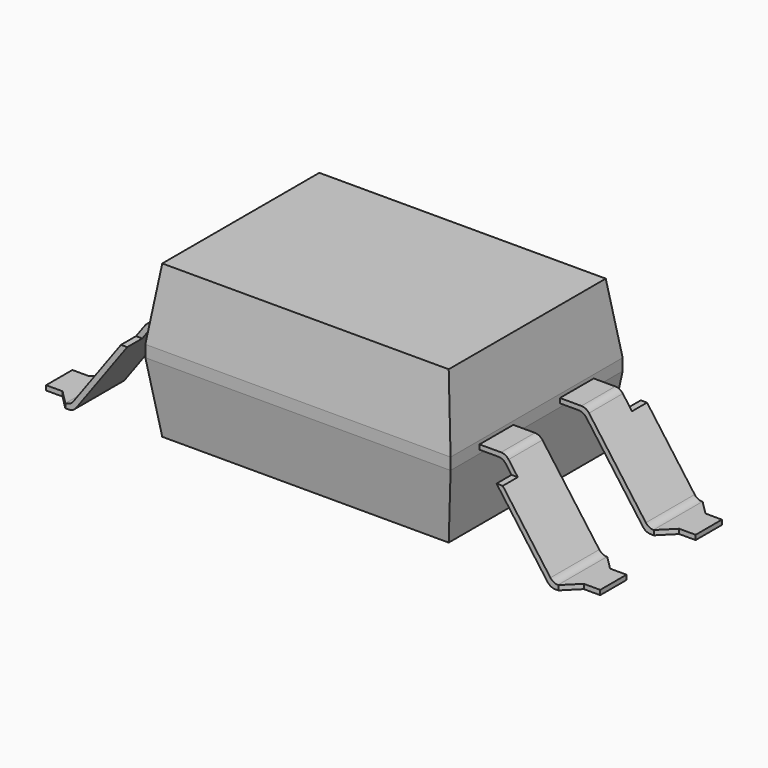
from build123d import *

# Parameters (mm, degrees)
BOX001_W               = 0.8
BOX001_H               = 0.8
BOX001_DEPTH           = 0.5
CHAMFER_SIZE           = 0.3
BOX_W                  = 10
BOX_H                  = 0.4
BOX_DEPTH              = 0.4
EXTRUDE001_DEPTH       = 1.3
FILLET_R               = 0.2
CUT005_PLACEMENT_ANGLE = 180
SKETCH_W               = 6.5
SKETCH_H               = 4.58
EXTRUDE_DEPTH          = 0.25
SKETCH001_W            = 6.1
SKETCH001_H            = 4.18


with BuildPart() as chamfer_body:
    # Box001 → Box001 (new body)
    with BuildSketch(Plane(origin=(-2.9, -0.2, -2), x_dir=(1, 0, 0), z_dir=(0, 0, 1))):
        with Locations((0.4, 0.4)):
            Rectangle(BOX001_W, BOX001_H)
    extrude(amount=BOX001_DEPTH)

    # Chamfer
    chamfer_edges = [chamfer_body.edges().sort_by_distance(p)[0] for p in [
        (-2.1, 0.6, -1.75),
    ]]
    chamfer(chamfer_edges, length=CHAMFER_SIZE)


with BuildPart() as chamfer_body_1:
    # Chamfer placement: moved
    add(chamfer_body.part.moved(Location((0.1, -0.1, 0))))


with BuildPart() as part_mirroring001:
    # Part__Mirroring001: instance of Chamfer body
    add(chamfer_body_1.part.mirror(Plane(origin=(0, 0.85, 0), x_dir=(1, 0, 0), z_dir=(0, 1, 0))))


with BuildPart() as part_mirroring002:
    # Part__Mirroring002: instance of Part__Mirroring001
    add(part_mirroring001.part.mirror(Plane(origin=(3.25, 0, 0), x_dir=(0, -1, 0), z_dir=(1, 0, 0))))


with BuildPart() as part_mirroring003:
    # Part__Mirroring003: instance of Part__Mirroring002
    add(part_mirroring002.part.mirror(Plane(origin=(0, 0.85, 0), x_dir=(1, 0, 0), z_dir=(0, 1, 0))))


with BuildPart() as cube:
    # Box → Box (new body)
    with BuildSketch(Plane(origin=(-1.5, 0.2, -0.3), x_dir=(1, 0, 0), z_dir=(0, 0, 1))):
        with Locations((5, 0.2)):
            Rectangle(BOX_W, BOX_H)
    extrude(amount=BOX_DEPTH)


with BuildPart() as cut003:
    # Sketch002 → Extrude001 (new body)
    with BuildSketch(Plane.XZ.offset(-0.2)):
        Polygon((-2.65, -1.875), (-1.83, -1.875), (-0.5, -0.05), (7, -0.05), (8.33, -1.875), (9.15, -1.875), (9.15, -1.775), (8.39, -1.775), (7.06, 0.05), (-0.56, 0.05), (-1.89, -1.775), (-2.65, -1.775), align=None)
    extrude(amount=EXTRUDE001_DEPTH)


with BuildPart() as cut003_1:
    # Extrude001 placement: moved
    add(cut003.part.moved(Location((0, 1.3, 0))))

    # Fillet
    fillet_edges = [cut003_1.edges().sort_by_distance(p)[0] for p in [
        (-1.83, 0.85, -1.875),
        (-0.5, 0.85, -0.05),
        (7, 0.85, -0.05),
        (8.33, 0.85, -1.875),
        (8.39, 0.85, -1.775),
        (7.06, 0.85, 0.05),
        (-0.56, 0.85, 0.05),
        (-1.89, 0.85, -1.775),
    ]]
    fillet(fillet_edges, radius=FILLET_R)

    # Cut: cut Cube
    add(cube.part, mode=Mode.SUBTRACT)

    # Cut001: cut Chamfer body
    add(chamfer_body_1.part, mode=Mode.SUBTRACT)

    # Cut002: cut Part__Mirroring001
    add(part_mirroring001.part, mode=Mode.SUBTRACT)

    # Cut003: cut Part__Mirroring002
    add(part_mirroring002.part, mode=Mode.SUBTRACT)


with BuildPart() as legs001:
    # Cut004 base: copy of Cut003
    add(cut003_1.part)

    # Cut004: cut Part__Mirroring003
    add(part_mirroring003.part, mode=Mode.SUBTRACT)


with BuildPart() as legs001_1:
    # Cut004 placement: moved
    add(legs001.part.moved(Location((0, 0.17, 0))))


with BuildPart() as legs002:
    # Cut005 base: copy of Cut003
    add(cut003_1.part)

    # Cut005: cut Part__Mirroring003
    add(part_mirroring003.part, mode=Mode.SUBTRACT)


with BuildPart() as legs002_1:
    # Cut005 placement: moved
    add(legs002.part.moved(Location((6.5, 4.41, 0))).rotate(Axis((6.5, 4.41, 0), (0, 0, 1)), CUT005_PLACEMENT_ANGLE))


with BuildPart() as extrude_body:
    # Sketch → Extrude (new body)
    with BuildSketch(Plane.XY.offset(0.125)):
        with Locations((3.25, 2.29)):
            Rectangle(SKETCH_W, SKETCH_H)
    extrude(amount=-EXTRUDE_DEPTH)


with BuildPart() as loft_body:
    # Sketch → Loft section 0
    with BuildSketch(Plane.XY.offset(0.125)):
        with Locations((3.25, 2.29)):
            Rectangle(SKETCH_W, SKETCH_H)
    # Sketch001 → Loft section 1
    with BuildSketch(Plane.XY.offset(1.625)):
        with Locations((3.25, 2.29)):
            Rectangle(SKETCH001_W, SKETCH001_H)
    loft()


with BuildPart() as part_mirroring:
    # Part__Mirroring: instance of Loft body
    add(loft_body.part.mirror(Plane(origin=(3.25, 2.29, 0), x_dir=(0, 1, 0), z_dir=(0, 0, 1))))


with BuildPart() as fusion001:
    # Fusion base: copy of Loft body
    add(loft_body.part)

    # Fusion: union Extrude body, Part__Mirroring
    add(extrude_body.part)
    add(part_mirroring.part)

    # Fusion001: union Legs001, Legs002
    add(legs001_1.part)
    add(legs002_1.part)


solid = fusion001.part
